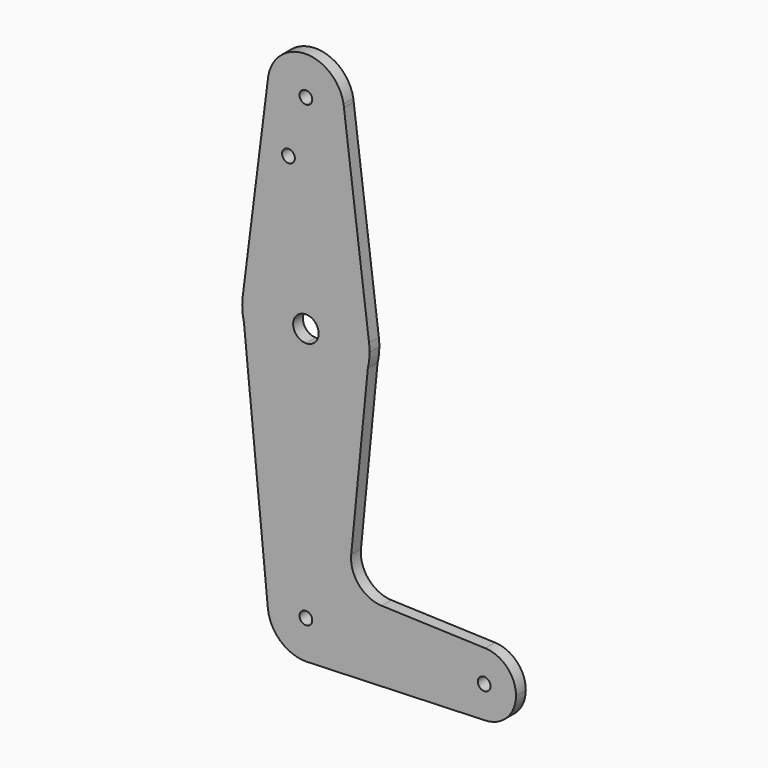
from build123d import *

# Parameters (mm, degrees)
F0_R     = 1.5875
F1_DEPTH = 3.048


with BuildPart() as f1:
    # F0 (on Front) → F1 (new body)
    with BuildSketch(Plane.XZ):
        with BuildLine():
            ThreePointArc((-9.4916804925, 51.59600655), (-7.0109766577, 44.3523778565), (0, 41.275))
            ThreePointArc((0, 41.275), (6.7351920908, 44.0648079092), (9.525, 50.8))
            ThreePointArc((9.525, 50.8), (9.5166664776, 51.1983517972), (9.4916804925, 51.59600655))
            Line((9.4916804925, 51.59600655), (9.3919824576, 52.3862819788))
            ThreePointArc((9.3919824576, 52.3862819788), (0, 60.325), (-9.3919824576, 52.3862819788))
            Line((-9.3919824576, 52.3862819788), (-9.4916804925, 51.59600655))
        make_face()
        with BuildLine():
            ThreePointArc((1.5875, 50.8), (1.1225320151, 49.6774679849), (0, 49.2125))
            ThreePointArc((0, 49.2125), (-1.1225320151, 51.9225320151), (1.5875, 50.8))
        make_face(mode=Mode.SUBTRACT)
        with BuildLine():
            ThreePointArc((9.525, 50.8), (6.7351920908, 44.0648079092), (0, 41.275))
            Line((0, 41.275), (0, 15.875))
            ThreePointArc((0, 15.875), (10.4993416565, 11.9071176101), (15.7501601175, 1.9869779251))
            Line((15.7501601175, 1.9869779251), (9.4916804925, 51.59600655))
            ThreePointArc((9.4916804925, 51.59600655), (9.5166664776, 51.1983517972), (9.525, 50.8))
        make_face()
        with BuildLine():
            Line((0, 15.875), (0, 41.275))
            ThreePointArc((0, 41.275), (-7.0109766577, 44.3523778565), (-9.4916804925, 51.59600655))
            Line((-9.4916804925, 51.59600655), (-15.7501600766, 1.986978249))
            ThreePointArc((-15.7501600766, 1.986978249), (-10.499341534, 11.9071177181), (0, 15.875))
        make_face()
        with Locations((-4.342969507, 36.5252)):
            Circle(F0_R, mode=Mode.SUBTRACT)
        with BuildLine():
            ThreePointArc((15.7501601175, 1.9869779251), (10.4993416565, 11.9071176101), (0, 15.875))
            Line((0, 15.875), (0, 3.175))
            ThreePointArc((0, 3.175), (2.2450640303, 2.2450640303), (3.175, 0))
            ThreePointArc((3.175, 0), (2.2450640303, -2.2450640303), (0, -3.175))
            Line((0, -3.175), (0, -15.875))
            ThreePointArc((0, -15.875), (9.8311316607, -12.4645286822), (15.4381634726, -3.6984771992))
            ThreePointArc((15.4381634726, -3.6984771992), (15.7654126195, -1.8620928914), (15.875, 0))
            ThreePointArc((15.875, 0), (15.8437592898, 0.9954479232), (15.7501601175, 1.9869779251))
        make_face()
        with BuildLine():
            Line((0, 3.175), (0, 15.875))
            ThreePointArc((0, 15.875), (-10.499341534, 11.9071177181), (-15.7501600766, 1.986978249))
            ThreePointArc((-15.7501600766, 1.986978249), (-15.8511508215, -0.8698520761), (-15.4381634726, -3.6984771992))
            ThreePointArc((-15.4381634726, -3.6984771992), (-9.8311316607, -12.4645286822), (0, -15.875))
            Line((0, -15.875), (0, -3.175))
            ThreePointArc((0, -3.175), (-3.175, 0), (0, 3.175))
        make_face()
        with BuildLine():
            ThreePointArc((-9.3919824576, 52.3862819788), (-9.4500960533, 51.992186891), (-9.4916804925, 51.59600655))
            Line((-9.4916804925, 51.59600655), (-9.3919824576, 52.3862819788))
        make_face()
        with BuildLine():
            Line((9.3919824576, 52.3862819788), (9.4916804925, 51.59600655))
            ThreePointArc((9.4916804925, 51.59600655), (9.4500960533, 51.992186891), (9.3919824576, 52.3862819788))
        make_face()
        with BuildLine():
            ThreePointArc((0, -15.875), (-9.8311316607, -12.4645286822), (-15.4381634726, -3.6984771992))
            Line((-15.4381634726, -3.6984771992), (-9.4794819084, -64.4300794316))
            ThreePointArc((-9.4794819084, -64.4300794316), (-7.0563670393, -57.102085558), (0, -53.975))
            Line((0, -53.975), (0, -15.875))
        make_face()
        with BuildLine():
            ThreePointArc((15.4381634726, -3.6984771992), (9.8311316607, -12.4645286822), (0, -15.875))
            Line((0, -15.875), (0, -53.975))
            ThreePointArc((0, -53.975), (6.7351920908, -56.7648079092), (9.525, -63.5))
            Line((9.525, -63.5), (36.5125, -63.5))
            ThreePointArc((36.5125, -63.5), (38.9380895153, -57.7883672161), (44.7324052746, -55.5675253854))
            Line((44.7324052746, -55.5675253854), (18.9242374025, -54.6487247478))
            ThreePointArc((18.9242374025, -54.6487247478), (13.2233002792, -51.9380482595), (11.2948869594, -45.9272518749))
            Line((11.2948869594, -45.9272518749), (15.4381634726, -3.6984771992))
        make_face()
        with BuildLine():
            ThreePointArc((0, -53.975), (-7.0563670393, -57.102085558), (-9.4794819084, -64.4300794316))
            ThreePointArc((-9.4794819084, -64.4300794316), (-6.397914442, -70.5563670393), (0, -73.025))
            Line((0, -73.025), (0.6773435479, -73.000885786))
            ThreePointArc((0.6773435479, -73.000885786), (6.9705567315, -69.9912990883), (9.525, -63.5))
            Line((9.525, -63.5), (1.5875, -63.5))
            ThreePointArc((1.5875, -63.5), (-1.1225320151, -64.6225320151), (0, -61.9125))
            Line((0, -61.9125), (0, -53.975))
        make_face()
        with BuildLine():
            Line((0.6773435479, -73.000885786), (0, -73.025))
            ThreePointArc((0, -73.025), (0.3388863295, -73.0189695375), (0.6773435479, -73.000885786))
        make_face()
        with BuildLine():
            Line((36.5125, -63.5), (9.525, -63.5))
            ThreePointArc((9.525, -63.5), (6.9705567315, -69.9912990883), (0.6773435479, -73.000885786))
            Line((0.6773435479, -73.000885786), (44.7324052746, -71.4324746146))
            ThreePointArc((44.7324052746, -71.4324746146), (38.9380895153, -69.2116327839), (36.5125, -63.5))
        make_face()
        with BuildLine():
            ThreePointArc((44.7324052746, -55.5675253854), (38.9380895153, -57.7883672161), (36.5125, -63.5))
            ThreePointArc((36.5125, -63.5), (38.9380895153, -69.2116327839), (44.7324052746, -71.4324746146))
            ThreePointArc((44.7324052746, -71.4324746146), (50.1616327839, -69.0119104847), (52.3875, -63.5))
            ThreePointArc((52.3875, -63.5), (50.1616327839, -57.9880895153), (44.7324052746, -55.5675253854))
        make_face()
        with BuildLine():
            ThreePointArc((46.0375, -63.5), (44.45, -65.0875), (42.8625, -63.5))
            ThreePointArc((42.8625, -63.5), (44.45, -61.9125), (46.0375, -63.5))
        make_face(mode=Mode.SUBTRACT)
        with BuildLine():
            ThreePointArc((9.525, -63.5), (6.7351920908, -56.7648079092), (0, -53.975))
            Line((0, -53.975), (0, -61.9125))
            ThreePointArc((0, -61.9125), (1.1225320151, -62.3774679849), (1.5875, -63.5))
            Line((1.5875, -63.5), (9.525, -63.5))
        make_face()
        with BuildLine():
            ThreePointArc((9.525, -63.5), (6.7351920908, -56.7648079092), (0, -53.975))
            Line((0, -53.975), (0, -61.9125))
            ThreePointArc((0, -61.9125), (1.1225320151, -62.3774679849), (1.5875, -63.5))
            Line((1.5875, -63.5), (9.525, -63.5))
        make_face()
    extrude(amount=F1_DEPTH)


solid = f1.part
